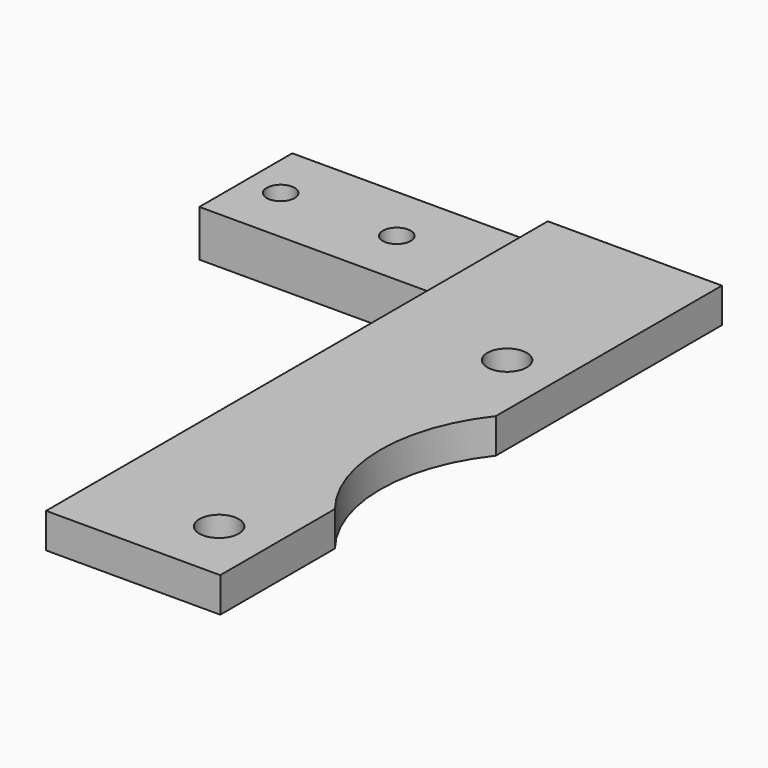
from build123d import *

# Parameters (mm, degrees)
PAD_DEPTH       = 10
SKETCH001_W     = 15
SKETCH001_H     = 3
PAD001_DEPTH    = 44
SKETCH002_R     = 14
SKETCH002_R_2   = 1.7
POCKET_DEPTH    = 6.001
SKETCH003_R     = 1.2
POCKET001_DEPTH = 5
POCKET002_DEPTH = 2.5


with BuildPart() as part:
    # Sketch → Pad (new body)
    with BuildSketch(Plane.XZ):
        with BuildLine():
            Line((0, 0), (24, 0))
            ThreePointArc((24, 0), (24.707107, 0.292893), (25, 1))
            Line((25, 1), (25, 2))
            ThreePointArc((26, 3), (25.292893, 2.707107), (25, 2))
            Line((26, 3), (37, 3))
            Line((37, 3), (37, 6))
            Line((37, 6), (22, 6))
            Line((22, 6), (22, 5))
            ThreePointArc((21, 4), (21.707107, 4.292893), (22, 5))
            Line((21, 4), (0, 4))
            Line((0, 4), (0, 0))
        make_face()
    extrude(amount=PAD_DEPTH)

    # Sketch001 (on Face13 of Pad) → Pad001 (join)
    with BuildSketch(Plane.XZ.offset(10)):
        with Locations((29.5, 4.5)):
            Rectangle(SKETCH001_W, SKETCH001_H)
    extrude(amount=PAD001_DEPTH)

    # Sketch002 (on Face14 of Pad001) → Pocket (cut, through all)
    with BuildSketch(Plane(origin=(0, 0, 6), x_dir=(-1, 0, 0), z_dir=(0, 0, 1))):
        with Locations((-48, 33)):
            Circle(SKETCH002_R)
        with Locations((-32.5, 48.5)):
            Circle(SKETCH002_R_2)
        with Locations((-32.5, 17.5)):
            Circle(SKETCH002_R_2)
    extrude(amount=-POCKET_DEPTH, mode=Mode.SUBTRACT)

    # Sketch003 (on Face1 of Pocket) → Pocket001 (cut)
    with BuildSketch(Plane(origin=(0, 0, 4), x_dir=(-1, 0, 0), z_dir=(0, 0, 1))):
        with Locations((-3, 5)):
            Circle(SKETCH003_R)
        with Locations((-13, 5)):
            Circle(SKETCH003_R)
    extrude(amount=-POCKET001_DEPTH, mode=Mode.SUBTRACT)

    # Sketch004 (on Face9 of Pocket001) → Pocket002 (cut)
    with BuildSketch(Plane(origin=(0, 0, 0), x_dir=(1, 0, 0), z_dir=(0, 0, -1))):
        Polygon((4.948557, 3.875), (4.948557, 6.125), (3, 7.25), (1.051443, 6.125), (1.051443, 3.875), (3, 2.75), align=None)
        Polygon((13, 2.75), (14.948557, 3.875), (14.948557, 6.125), (13, 7.25), (11.051443, 6.125), (11.051443, 3.875), align=None)
    extrude(amount=-POCKET002_DEPTH, mode=Mode.SUBTRACT)


solid = part.part
